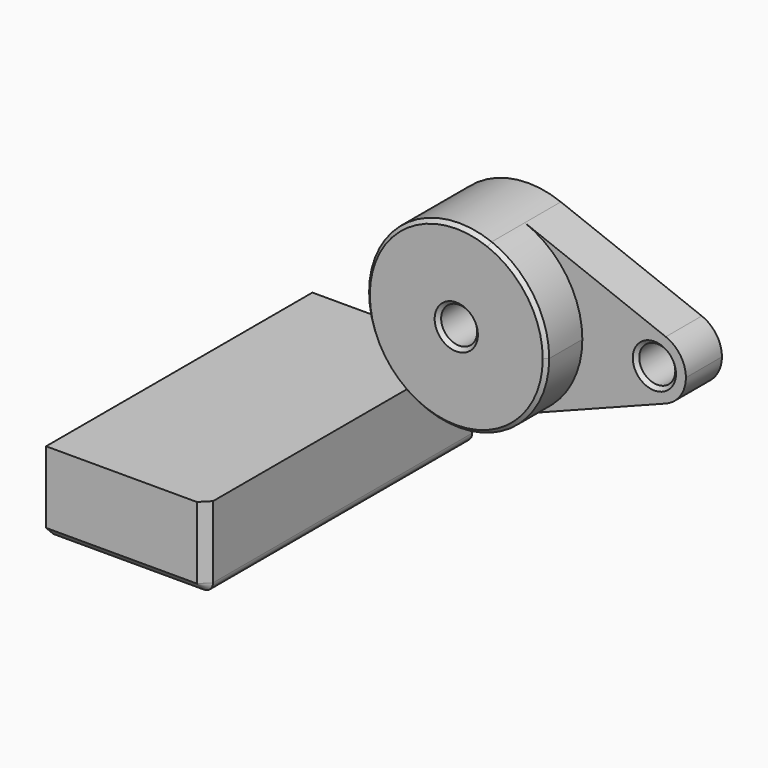
from build123d import *

# Parameters (mm, degrees)
F0_R     = 10
F1_DEPTH = 25
F2_DEPTH = 50
F3_SIZE  = 2
F4_W     = 88.701761
F4_H     = 44.897619
F5_DEPTH = 184.848249
F6_R     = 5
F7_SIZE  = 5


with BuildPart() as f1:
    # F0 (on Front) → F1 (new body)
    with BuildSketch(Plane.XZ):
        with BuildLine():
            ThreePointArc((18.055556, -46.62614), (41.247896, -28.259708), (50, 0))
            ThreePointArc((50, 0), (41.247896, 28.259708), (18.055556, 46.62614))
            ThreePointArc((18.055556, 46.62614), (-50, 0), (18.055556, -46.62614))
        make_face()
        Circle(F0_R, mode=Mode.SUBTRACT)
        with BuildLine():
            ThreePointArc((18.055556, 46.62614), (41.247896, 28.259708), (50, 0))
            ThreePointArc((50, 0), (41.247896, -28.259708), (18.055556, -46.62614))
            Line((18.055556, -46.62614), (96.319444, -16.319149))
            ThreePointArc((96.319444, -16.319149), (72.5, 0), (96.319444, 16.319149))
            Line((96.319444, 16.319149), (18.055556, 46.62614))
        make_face()
        with BuildLine():
            ThreePointArc((107.5, 0), (104.436763, 9.890898), (96.319444, 16.319149))
            ThreePointArc((96.319444, 16.319149), (72.5, 0), (96.319444, -16.319149))
            ThreePointArc((96.319444, -16.319149), (104.436763, -9.890898), (107.5, 0))
        make_face()
        with Locations((90, 0)):
            Circle(F0_R, mode=Mode.SUBTRACT)
    extrude(amount=F1_DEPTH)

    # F0 (on Front) → F2 (join)
    with BuildSketch(Plane.XZ):
        with BuildLine():
            ThreePointArc((18.055556, -46.62614), (41.247896, -28.259708), (50, 0))
            ThreePointArc((50, 0), (41.247896, 28.259708), (18.055556, 46.62614))
            ThreePointArc((18.055556, 46.62614), (-50, 0), (18.055556, -46.62614))
        make_face()
        Circle(F0_R, mode=Mode.SUBTRACT)
    extrude(amount=F2_DEPTH)

    # F3
    f3_edges = [f1.edges().sort_by_distance(p)[0] for p in [
        (-18.055556, -50, 46.62614),
        (-10, -50, 0),
        (80, -25, 0),
    ]]
    chamfer(f3_edges, length=F3_SIZE)


with BuildPart() as f5:
    # F4 (on face) → F5 (new body)
    with BuildSketch(Plane.XZ):
        with Locations((-75.530496, -64.977056)):
            Rectangle(F4_W, F4_H)
    extrude(amount=F5_DEPTH)

    # F6
    f6_edges = [f5.edges().sort_by_distance(p)[0] for p in [
        (-31.179616, -92.424124, -87.425865),
    ]]
    fillet(f6_edges, radius=F6_R)

    # F7
    f7_edges = [f5.edges().sort_by_distance(p)[0] for p in [
        (-78.030496, -184.848249, -87.425865),
    ]]
    chamfer(f7_edges, length=F7_SIZE)


solid = Compound([f1.part, f5.part])
